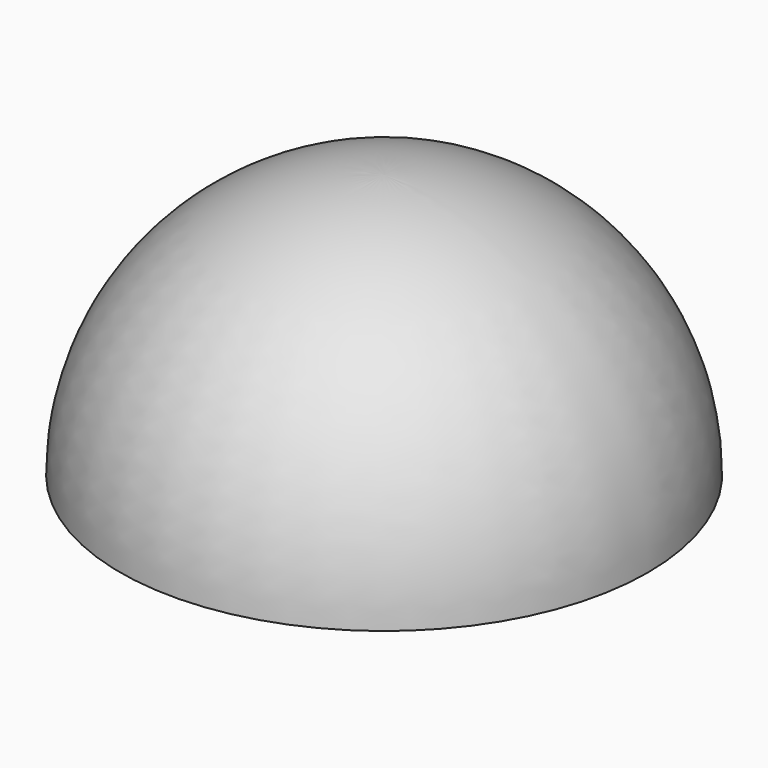
from build123d import *


with BuildPart() as sphere_hole:
    # Sphere001 → Sphere001 (revolve)
    with BuildSketch(Plane.XZ):
        with BuildLine():
            ThreePointArc((0, -15.95), (15.95, 0), (0, 15.95))
            Line((0, 15.95), (0, -15.95))
        make_face()
    revolve(axis=Axis((0, 0, 0), (0, 0, 1)))


with BuildPart() as hemisphere:
    # Sphere → Sphere (revolve)
    with BuildSketch(Plane.XZ):
        with BuildLine():
            ThreePointArc((22, 0), (15.556349, 15.556349), (0, 22))
            Line((0, 22), (0, 0))
            Line((0, 0), (22, 0))
        make_face()
    revolve(axis=Axis((0, 0, 0), (0, 0, 1)))


with BuildPart() as hemisphere_to_print_process:
    # Cut base: copy of hemisphere
    add(hemisphere.part)

    # Cut: cut sphere hole
    add(sphere_hole.part, mode=Mode.SUBTRACT)


with BuildPart() as hemisphere_to_print:
    # Cut002 base: copy of hemisphere
    add(hemisphere.part)

    # Cut002: cut sphere hole
    add(sphere_hole.part, mode=Mode.SUBTRACT)


solid = Compound([hemisphere_to_print_process.part, hemisphere_to_print.part])
